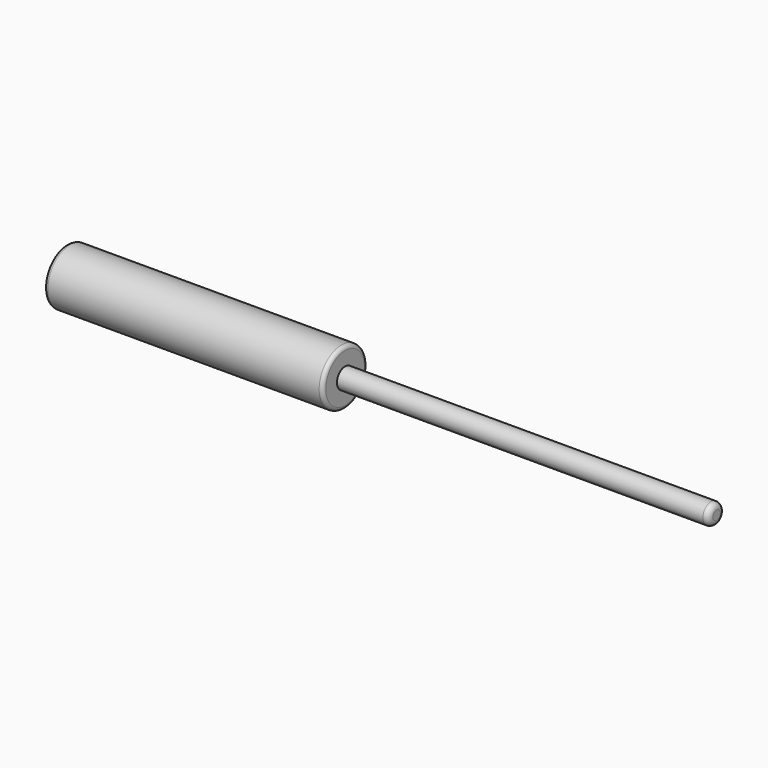
from build123d import *

# Parameters (mm, degrees)
F2_R = 3
F3_R = 2


with BuildPart() as f1:
    # F0 (on Front) → F1 (revolve)
    with BuildSketch(Plane.XZ):
        Polygon((-50.205132, 15), (-50.205132, 0), (299.794868, 0), (299.794868, 5.5), (99.794868, 5.5), (99.794868, 15), align=None)
    revolve(axis=Axis((124.794868, 0, 0), (-1, 0, 0)))

    # F2
    f2_edges = [f1.edges().sort_by_distance(p)[0] for p in [
        (299.794868, 0, -5.5),
    ]]
    fillet(f2_edges, radius=F2_R)

    # F3
    f3_edges = [f1.edges().sort_by_distance(p)[0] for p in [
        (99.794868, 0, -15),
        (-50.205132, 0, -15),
    ]]
    fillet(f3_edges, radius=F3_R)


solid = f1.part
